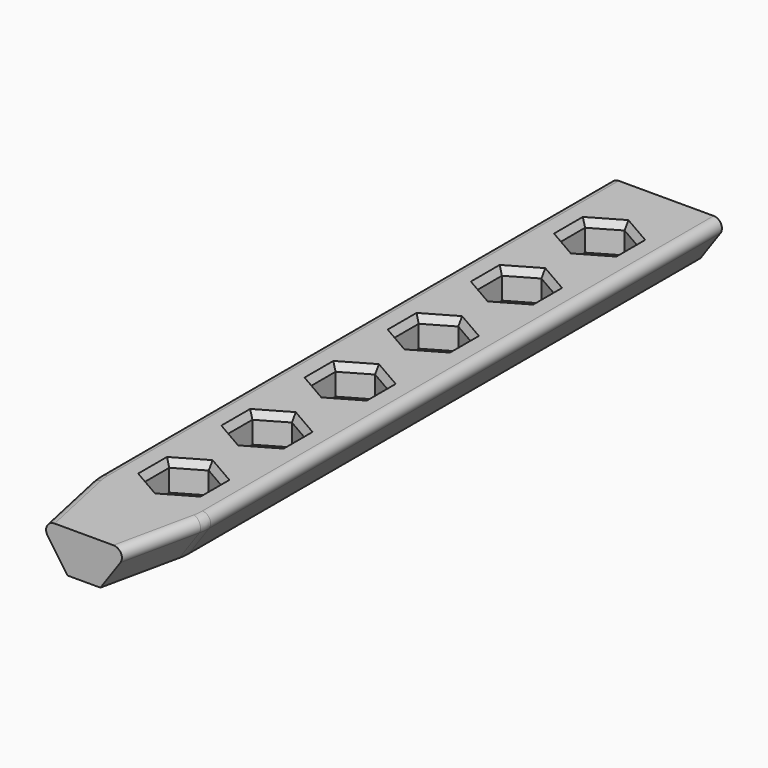
from build123d import *

# Parameters (mm, degrees)
F1_DEPTH   = 175
F2_R       = 4.5
F3_DEPTH   = 7
F4_DEPTH   = 25
F5_SIZE2   = 1.7320508076
F5_SIZE    = 1
F6_SIZE2   = 3.5265396142
F6_SIZE    = 20
F6_2_SIZE2 = 3.5265396142
F6_2_SIZE  = 20
F7_R       = 15
F8_R       = 2


with BuildPart() as f1:
    # F0 (on Front) → F1 (new body)
    with BuildSketch(Plane.XZ):
        Polygon((-15.2520753821, 10), (-8.25, 0), (8.25, 0), (15.2520753821, 10), align=None)
    extrude(amount=F1_DEPTH)

    # F2 (on face) → F3 (cut)
    with BuildSketch(Plane.XY.offset(10)):
        Polygon((6.5, -23.7527767497), (6.5, -16.2472232503), (0, -12.4944465005), (-6.5, -16.2472232503), (-6.5, -23.7527767497), (0, -27.5055534995), align=None)
        with Locations((0, -20)):
            Circle(F2_R, mode=Mode.SUBTRACT)
        Polygon((-6.5, -41.2472232503), (-6.5, -48.7527767497), (0, -52.5055534995), (6.5, -48.7527767497), (6.5, -41.2472232503), (0, -37.4944465005), align=None)
        with Locations((0, -45)):
            Circle(F2_R, mode=Mode.SUBTRACT)
        Polygon((-6.5, -66.2472232503), (-6.5, -73.7527767497), (0, -77.5055534995), (6.5, -73.7527767497), (6.5, -66.2472232503), (0, -62.4944465005), align=None)
        with Locations((0, -70)):
            Circle(F2_R, mode=Mode.SUBTRACT)
        Polygon((-6.5, -91.2472232503), (-6.5, -98.7527767497), (0, -102.5055534995), (6.5, -98.7527767497), (6.5, -91.2472232503), (0, -87.4944465005), align=None)
        with Locations((0, -95)):
            Circle(F2_R, mode=Mode.SUBTRACT)
        Polygon((-6.5, -116.2472232503), (-6.5, -123.7527767497), (0, -127.5055534995), (6.5, -123.7527767497), (6.5, -116.2472232503), (0, -112.4944465005), align=None)
        with Locations((0, -120)):
            Circle(F2_R, mode=Mode.SUBTRACT)
        Polygon((-6.5, -141.2472232503), (-6.5, -148.7527767497), (0, -152.5055534995), (6.5, -148.7527767497), (6.5, -141.2472232503), (0, -137.4944465005), align=None)
        with Locations((0, -145)):
            Circle(F2_R, mode=Mode.SUBTRACT)
    extrude(amount=-F3_DEPTH, mode=Mode.SUBTRACT)

    # F4 (cut): faces of the model
    f4_faces = [f1.faces().sort_by_distance(p)[0] for p in [
        (0, -20, 10),
        (0, -45, 10),
        (0, -70, 10),
        (0, -95, 10),
        (0, -120, 10),
        (0, -145, 10),
    ]]
    extrude(f4_faces, amount=-F4_DEPTH, mode=Mode.SUBTRACT)

    # F5
    f5_edges = [f1.edges().sort_by_distance(p)[0] for p in [
        (-6.5, -145, 10),
        (-3.25, -139.370835, 10),
        (-3.25, -150.629165, 10),
        (3.25, -150.629165, 10),
        (6.5, -145, 10),
        (3.25, -139.370835, 10),
        (-3.25, -125.629165, 10),
        (-6.5, -120, 10),
        (-3.25, -114.370835, 10),
        (3.25, -114.370835, 10),
        (6.5, -120, 10),
        (3.25, -125.629165, 10),
        (-6.5, -95, 10),
        (-3.25, -89.370835, 10),
        (3.25, -89.370835, 10),
        (6.5, -95, 10),
        (3.25, -100.629165, 10),
        (-3.25, -100.629165, 10),
        (-3.25, -75.629165, 10),
        (-6.5, -70, 10),
        (-3.25, -64.370835, 10),
        (3.25, -64.370835, 10),
        (6.5, -70, 10),
        (3.25, -75.629165, 10),
        (-6.5, -45, 10),
        (-3.25, -39.370835, 10),
        (3.25, -39.370835, 10),
        (6.5, -45, 10),
        (3.25, -50.629165, 10),
        (-3.25, -50.629165, 10),
        (-3.25, -25.629165, 10),
        (-6.5, -20, 10),
        (-3.25, -14.370835, 10),
        (3.25, -14.370835, 10),
        (6.5, -20, 10),
        (3.25, -25.629165, 10),
    ]]
    chamfer(f5_edges, length=F5_SIZE, length2=F5_SIZE2)

    # F6
    f6_edges = [f1.edges().sort_by_distance(p)[0] for p in [
        (-11.751038, -175, 5),
    ]]
    f6_side = f1.faces().sort_by_distance((-11.751038, -87.5, 5))[0]
    chamfer(f6_edges, length=F6_SIZE, length2=F6_SIZE2, reference=f6_side)

    # F6#2
    f6_2_edges = [f1.edges().sort_by_distance(p)[0] for p in [
        (11.751038, -175, 5),
    ]]
    f6_2_side = f1.faces().sort_by_distance((11.751038, -87.5, 5))[0]
    chamfer(f6_2_edges, length=F6_2_SIZE, length2=F6_2_SIZE2, reference=f6_2_side)

    # F7
    f7_edges = [f1.edges().sort_by_distance(p)[0] for p in [
        (-11.751038, -155, 5),
        (11.751038, -155, 5),
    ]]
    fillet(f7_edges, radius=F7_R)

    # F8
    f8_edges = [f1.edges().sort_by_distance(p)[0] for p in [
        (12.960423, -165.646196, 10),
        (-12.960423, -165.646196, 10),
    ]]
    fillet(f8_edges, radius=F8_R)


solid = f1.part
